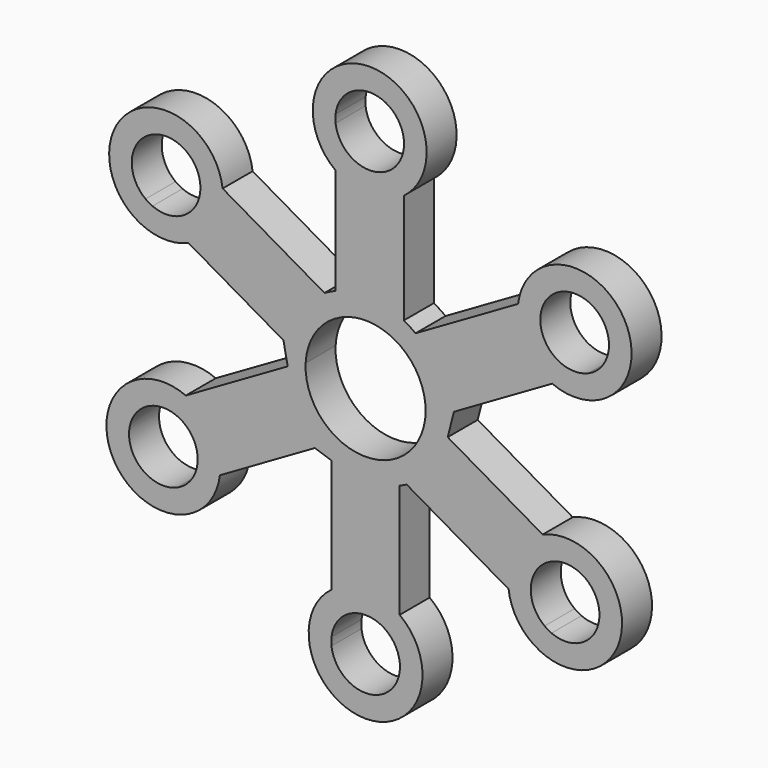
from build123d import *

# Parameters (mm, degrees)
F1_DEPTH = 6.9342


with BuildPart() as f1:
    # F0 (on Front) → F1 (new body)
    with BuildSketch(Plane.XZ):
        with BuildLine():
            Line((28.202122, 22.984592), (9.230435, 12.031283))
            ThreePointArc((9.230435, 12.031283), (8.177557, 12.772114), (7.065545, 13.420814))
            Line((7.065545, 13.420814), (7.065545, 33.731301))
            ThreePointArc((7.065545, 33.731301), (0.758717, 52.689846), (-5.54811, 33.731301))
            Line((-5.54811, 33.731301), (-5.54811, 14.117454))
            ThreePointArc((-5.54811, 14.117454), (-6.591857, 13.660258), (-7.59826, 13.125854))
            Line((-7.59826, 13.125854), (-26.438109, 24.003046))
            ThreePointArc((-26.438109, 24.003046), (-46.010104, 28.020445), (-32.744936, 13.0793))
            Line((-32.744936, 13.0793), (-15.183252, 2.940057))
            Line((-15.183252, 2.940057), (-14.407735, -1.035813))
            Line((-14.407735, -1.035813), (-33.247584, -11.913005))
            ThreePointArc((-33.247584, -11.913005), (-46.512752, -26.85415), (-26.940757, -22.83675))
            Line((-26.940757, -22.83675), (-9.379072, -12.697507))
            Line((-9.379072, -12.697507), (-6.306827, -13.731525))
            Line((-6.306827, -13.731525), (-6.306827, -34.749755))
            ThreePointArc((-6.306827, -34.749755), (0, -53.7083), (6.306827, -34.749755))
            Line((6.306827, -34.749755), (6.306827, -13.731525))
            Line((6.306827, -13.731525), (7.59826, -13.125854))
            Line((7.59826, -13.125854), (26.438109, -24.003046))
            ThreePointArc((26.438109, -24.003046), (46.010104, -28.020445), (32.744936, -13.0793))
            Line((32.744936, -13.0793), (15.183252, -2.940057))
            Line((15.183252, -2.940057), (16.33474, 1.567961))
            Line((16.33474, 1.567961), (34.50895, 12.060847))
            ThreePointArc((34.50895, 12.060847), (47.774118, 27.001992), (28.202122, 22.984592))
        make_face()
        with BuildLine():
            ThreePointArc((6.306827, -42.440791), (6.339198, -42.809766), (6.35, -43.18))
            ThreePointArc((6.35, -43.18), (6.339198, -43.550234), (6.306827, -43.919209))
            ThreePointArc((6.306827, -43.919209), (0, -49.53), (-6.306827, -43.919209))
            ThreePointArc((-6.306827, -43.919209), (-6.35, -43.18), (-6.306827, -42.440791))
            ThreePointArc((-6.306827, -42.440791), (0, -36.83), (6.306827, -42.440791))
        make_face(mode=Mode.SUBTRACT)
        with BuildLine():
            ThreePointArc((-34.881737, -27.421477), (-42.894238, -24.765), (-41.188564, -16.497732))
            ThreePointArc((-41.188564, -16.497732), (-40.569977, -16.090739), (-39.908217, -15.758523))
            ThreePointArc((-39.908217, -15.758523), (-33.904746, -16.285211), (-31.044977, -21.59))
            ThreePointArc((-31.044977, -21.59), (-31.719954, -24.438967), (-33.60139, -26.682268))
            ThreePointArc((-33.60139, -26.682268), (-34.219977, -27.089261), (-34.881737, -27.421477))
        make_face(mode=Mode.SUBTRACT)
        with BuildLine():
            ThreePointArc((43.242329, -22.756295), (40.38256, -28.061085), (34.379089, -28.587772))
            ThreePointArc((34.379089, -28.587772), (33.717329, -28.255557), (33.098742, -27.848564))
            ThreePointArc((33.098742, -27.848564), (31.393068, -19.581295), (39.405569, -16.924818))
            ThreePointArc((39.405569, -16.924818), (40.067329, -17.257034), (40.685916, -17.664027))
            ThreePointArc((40.685916, -17.664027), (42.567352, -19.907329), (43.242329, -22.756295))
        make_face(mode=Mode.SUBTRACT)
        with BuildLine():
            ThreePointArc((-33.098742, 27.848564), (-31.217306, 25.605262), (-30.542329, 22.756295))
            ThreePointArc((-30.542329, 22.756295), (-33.402098, 17.451506), (-39.405569, 16.924818))
            ThreePointArc((-39.405569, 16.924818), (-40.067329, 17.257034), (-40.685916, 17.664027))
            ThreePointArc((-40.685916, 17.664027), (-42.39159, 25.931295), (-34.379089, 28.587772))
            ThreePointArc((-34.379089, 28.587772), (-33.717329, 28.255557), (-33.098742, 27.848564))
        make_face(mode=Mode.SUBTRACT)
        with BuildLine():
            ThreePointArc((5.319741, 9.773443), (9.546036, 5.695287), (11.0998, 0.031477))
            ThreePointArc((11.0998, 0.031477), (11.072628, -0.744715), (10.991244, -1.517107))
            ThreePointArc((10.991244, -1.517107), (-1.047034, -11.01883), (-11.086495, 0.574793))
            ThreePointArc((-11.086495, 0.574793), (-8.770532, 6.834662), (-3.28325, 10.634581))
            ThreePointArc((-3.28325, 10.634581), (1.105538, 11.076084), (5.319741, 9.773443))
        make_face(mode=Mode.SUBTRACT)
        with BuildLine():
            ThreePointArc((36.143102, 27.569319), (42.146573, 27.042631), (45.006342, 21.737842))
            ThreePointArc((45.006342, 21.737842), (44.331366, 18.888875), (42.449929, 16.645573))
            ThreePointArc((42.449929, 16.645573), (41.831342, 16.23858), (41.169583, 15.906365))
            ThreePointArc((41.169583, 15.906365), (33.157081, 18.562842), (34.862755, 26.83011))
            ThreePointArc((34.862755, 26.83011), (35.481342, 27.237103), (36.143102, 27.569319))
        make_face(mode=Mode.SUBTRACT)
        with BuildLine():
            ThreePointArc((-5.54811, 42.900755), (0.758717, 48.511546), (7.065545, 42.900755))
            ThreePointArc((7.065545, 42.900755), (7.097915, 42.53178), (7.108717, 42.161546))
            ThreePointArc((7.108717, 42.161546), (7.097915, 41.791312), (7.065545, 41.422338))
            ThreePointArc((7.065545, 41.422338), (0.758717, 35.811546), (-5.54811, 41.422338))
            ThreePointArc((-5.54811, 41.422338), (-5.591283, 42.161546), (-5.54811, 42.900755))
        make_face(mode=Mode.SUBTRACT)
    extrude(amount=F1_DEPTH)


solid = f1.part
